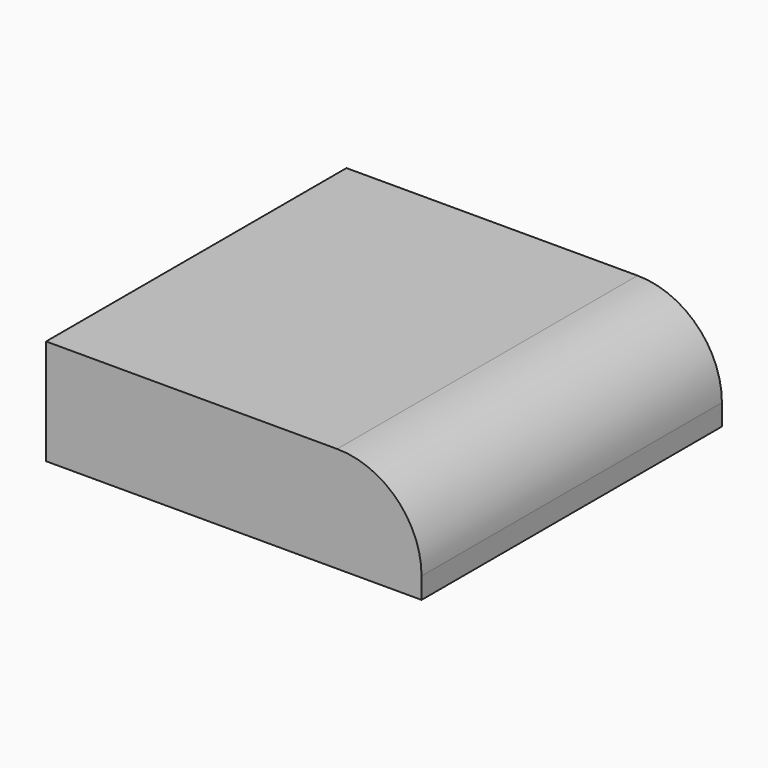
from build123d import *

# Parameters (mm, degrees)
F0_W     = 17.8
F0_H     = 17.8
F1_DEPTH = 5
F2_R     = 4
F3_T     = -1


with BuildPart() as f1:
    # F0 (on Top) → F1 (new body)
    with BuildSketch(Plane.XY):
        with Locations((-8.9, 8.9)):
            Rectangle(F0_W, F0_H)
    extrude(amount=F1_DEPTH)

    # F2
    f2_edges = [f1.edges().sort_by_distance(p)[0] for p in [
        (0, 8.9, 5),
    ]]
    fillet(f2_edges, radius=F2_R)

    # F3
    f3_openings = [f1.faces().sort_by_distance(p)[0] for p in [
        (-8.9, 8.9, 0),
        (-17.8, 8.9, 2.5),
    ]]
    offset(amount=F3_T, openings=f3_openings)


solid = f1.part
